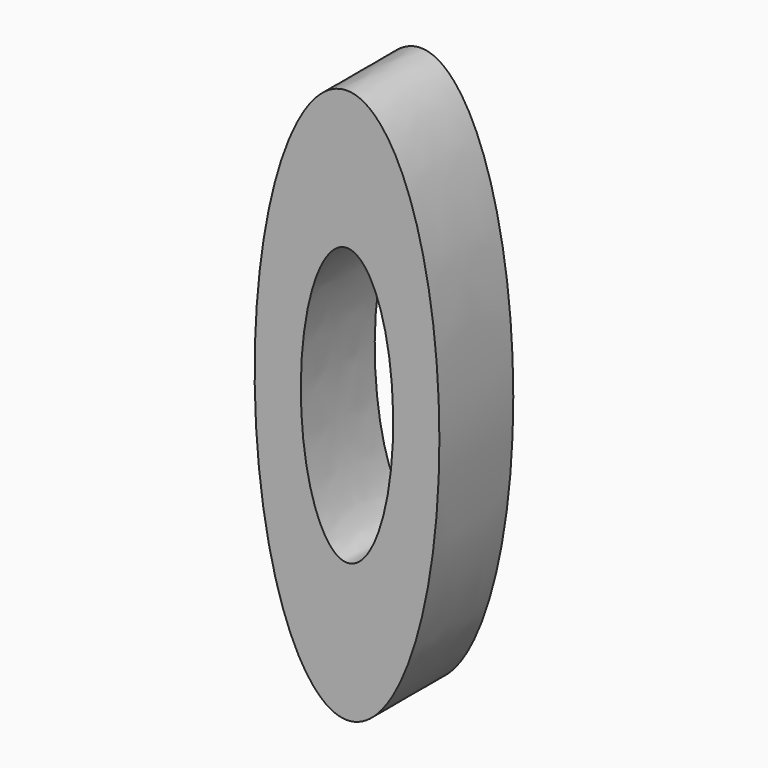
from build123d import *

# Parameters (mm, degrees)
F1_DEPTH = 25.4
F3_DEPTH = 25.4


with BuildPart() as f1:
    # F0 (on Front) → F1 (new body)
    with BuildSketch(Plane.XZ):
        with BuildLine():
            add(Edge.make_bspline(
                [(5.524216, 8.252152), (5.524216, 140.234424), (-32.575784, 74.243288), (-70.675784, 8.252152), (-32.575784, -57.738984), (5.524216, -123.730119), (5.524216, 8.252152)],
                knots=[4.712389, 4.712389, 4.712389, 6.806784, 6.806784, 8.901179, 8.901179, 10.995574, 10.995574, 10.995574], degree=2, weights=[1, 0.5, 1, 0.5, 1, 0.5, 1]))
        make_face()
    extrude(amount=F1_DEPTH)

    # F2 (on face) → F3 (cut)
    with BuildSketch(Plane.XZ.offset(25.4)):
        with BuildLine():
            add(Edge.make_bspline(
                [(-19.875784, -29.847848), (2.121261, -29.847848), (-8.877261, 27.302152), (-19.875784, 84.452152), (-30.874307, 27.302152), (-41.872829, -29.847848), (-19.875784, -29.847848)],
                knots=[0, 0, 0, 2.094395, 2.094395, 4.18879, 4.18879, 6.283185, 6.283185, 6.283185], degree=2, weights=[1, 0.5, 1, 0.5, 1, 0.5, 1]))
        make_face()
    extrude(amount=-F3_DEPTH, mode=Mode.SUBTRACT)


solid = f1.part
